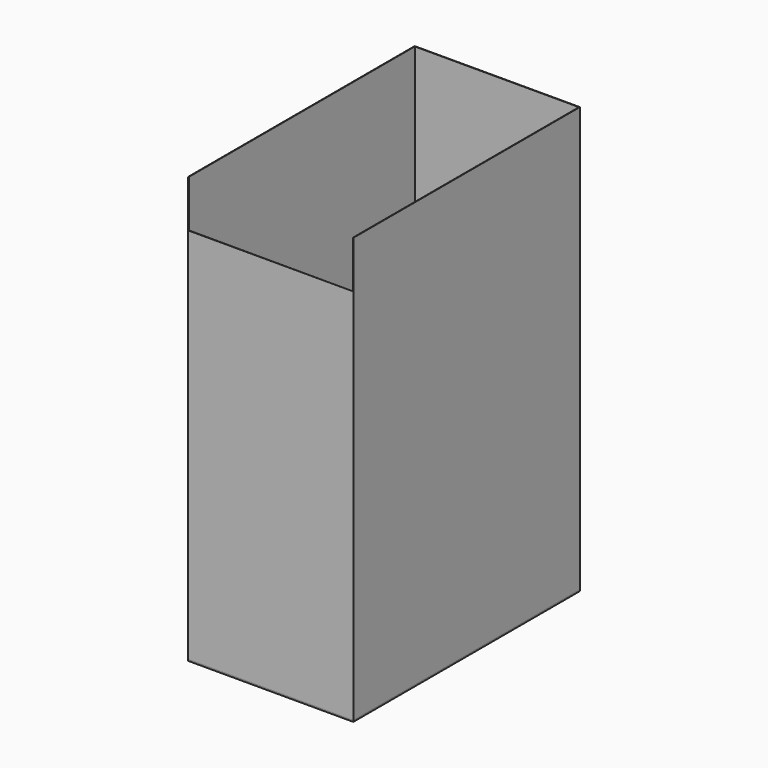
from build123d import *

# Parameters (mm, degrees)
F0_W     = 350
F0_H     = 600
F1_DEPTH = 3
F3_DEPTH = 800
F4_DEPTH = 900
F5_DEPTH = 900
F6_DEPTH = 900


with BuildPart() as f1:
    # F0 (on Top) → F1 (new body)
    with BuildSketch(Plane.XY):
        Rectangle(F0_W, F0_H)
    extrude(amount=F1_DEPTH)


with BuildPart() as f3:
    # F2 (on face) → F3 (new body)
    with BuildSketch(Plane.XY.offset(3)):
        Polygon((175, -300), (-174, -299), (-175, -300), align=None)
    extrude(amount=F3_DEPTH)


with BuildPart() as f4:
    # F2 (on face) → F4 (new body)
    with BuildSketch(Plane.XY.offset(3)):
        Polygon((-174, -299), (-174, 299), (-175, 300), (-175, -300), align=None)
    extrude(amount=F4_DEPTH)


with BuildPart() as f5:
    # F2 (on face) → F5 (new body)
    with BuildSketch(Plane.XY.offset(3)):
        Polygon((175, 300), (174, 299), (174, -299), (175, -300), align=None)
    extrude(amount=F5_DEPTH)


with BuildPart() as f6:
    # F2 (on face) → F6 (new body)
    with BuildSketch(Plane.XY.offset(3)):
        Polygon((-175, 300), (-174, 299), (174, 299), (175, 300), align=None)
    extrude(amount=F6_DEPTH)


solid = Compound([f1.part, f3.part, f4.part, f5.part, f6.part])
